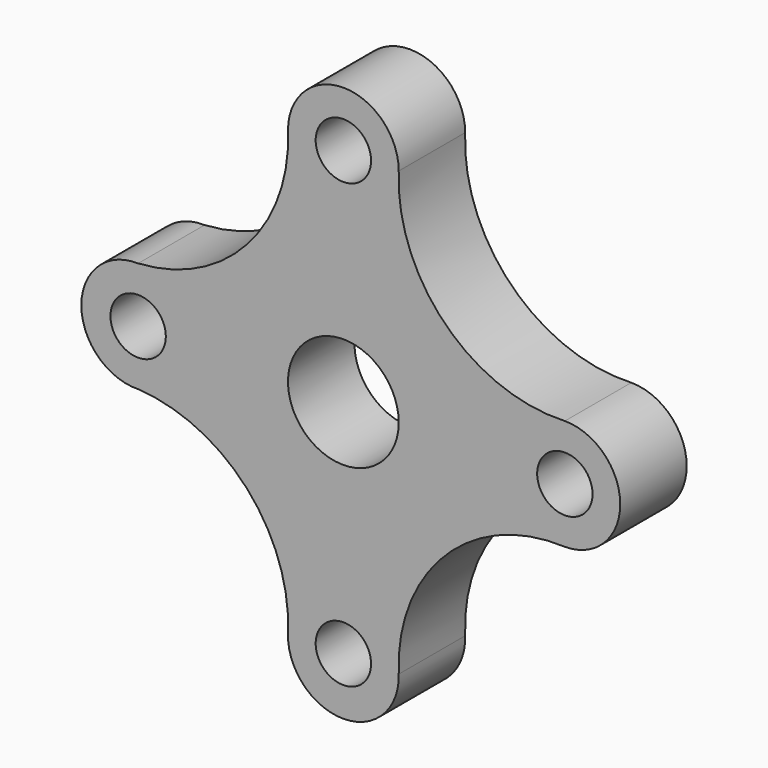
from build123d import *

# Parameters (mm, degrees)
F0_R     = 6.35
F0_R_2   = 12.7
F1_DEPTH = 19.05


with BuildPart() as f1:
    # F0 (on Front) → F1 (new body)
    with BuildSketch(Plane.XZ):
        with Locations((-47.070321, 0)):
            Circle(F0_R)
        with BuildLine():
            ThreePointArc((50.8, 12.7), (23.358147, 23.358147), (12.7, 50.8))
            ThreePointArc((12.7, 50.8), (0, 63.5), (-12.7, 50.8))
            ThreePointArc((-12.7, 50.8), (-22.06419, 24.694638), (-47.070321, 12.7))
            ThreePointArc((-47.070321, 12.7), (-60.100518, 0), (-47.070321, -12.7))
            ThreePointArc((-47.070321, -12.7), (-22.06419, -24.694638), (-12.7, -50.8))
            ThreePointArc((-12.7, -50.8), (0, -63.943055), (12.7, -50.8))
            ThreePointArc((12.7, -50.8), (23.358147, -23.358147), (50.8, -12.7))
            ThreePointArc((50.8, -12.7), (63.5, 0), (50.8, 12.7))
        make_face()
        with Locations((0, -50.8)):
            Circle(F0_R, mode=Mode.SUBTRACT)
        with Locations((-47.070321, 0)):
            Circle(F0_R, mode=Mode.SUBTRACT)
        Circle(F0_R_2, mode=Mode.SUBTRACT)
        with Locations((0, 50.8)):
            Circle(F0_R, mode=Mode.SUBTRACT)
        with Locations((50.8, 0)):
            Circle(F0_R, mode=Mode.SUBTRACT)
    extrude(amount=F1_DEPTH)


solid = f1.part
